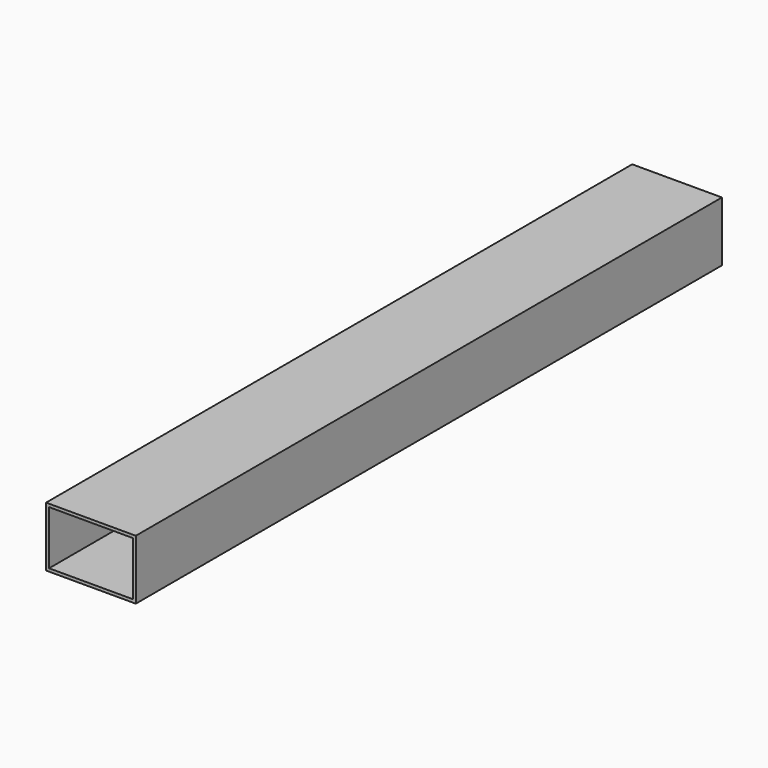
from build123d import *

# Parameters (mm, degrees)
F0_W     = 76.2
F0_H     = 50.8
F1_DEPTH = 622.3
F2_T     = -2.54


with BuildPart() as f1:
    # F0 (on Front) → F1 (new body)
    with BuildSketch(Plane.XZ):
        Rectangle(F0_W, F0_H)
    extrude(amount=F1_DEPTH)

    # F2
    f2_openings = [f1.faces().sort_by_distance(p)[0] for p in [
        (0, 0, 0),
        (0, -622.3, 0),
    ]]
    offset(amount=F2_T, openings=f2_openings)


solid = f1.part
